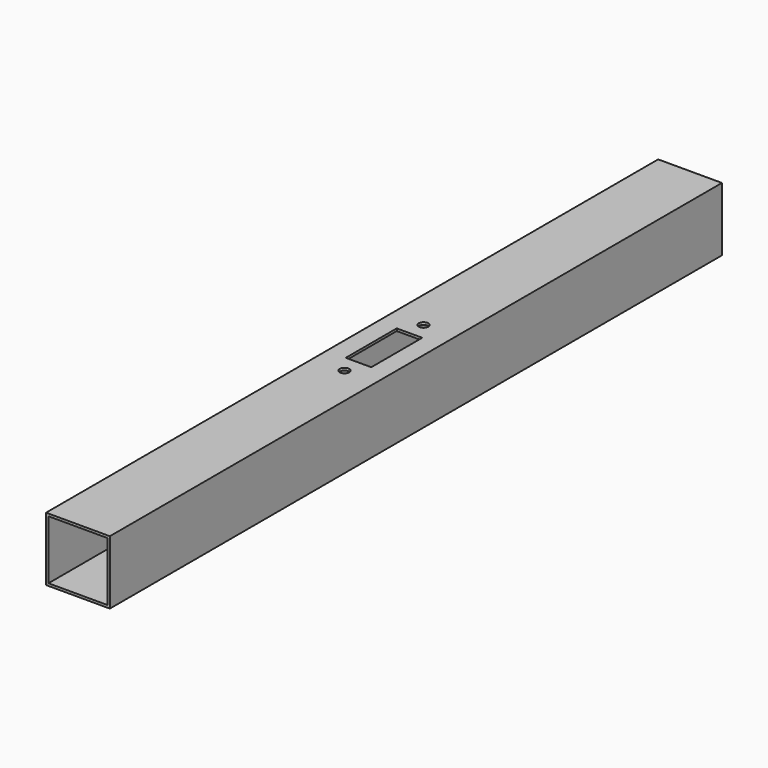
from build123d import *

# Parameters (mm, degrees)
F0_W     = 20
F0_H     = 20
F0_W_2   = 18.5
F0_H_2   = 18.5
F1_DEPTH = 240
F2_W     = 6
F2_H     = 9
F3_DEPTH = 25


with BuildPart() as f1:
    # F0 (on Front) → F1 (new body)
    with BuildSketch(Plane.XZ):
        with Locations((-44.484539, 36.999997)):
            Rectangle(F0_W, F0_H)
        with Locations((-44.484539, 36.999997)):
            Rectangle(F0_W_2, F0_H_2, mode=Mode.SUBTRACT)
    extrude(amount=F1_DEPTH)

    # F2 (on face) → F3 (cut)
    with BuildSketch(Plane.XY.offset(46.999997)):
        with Locations((-44.484539, -124.5)):
            Rectangle(F2_W, F2_H)
        with Locations((-44.484539, -115.5)):
            Rectangle(F2_W, F2_H)
        Polygon((-48.484539, -110), (-48.484539, -120), (-47.484539, -120), (-47.484539, -111), (-41.484539, -111), (-41.484539, -120), (-40.484539, -120), (-40.484539, -110), (-44.484539, -110), align=None)
        Polygon((-47.484539, -120), (-48.484539, -120), (-48.484539, -130), (-44.484539, -130), (-40.484539, -130), (-40.484539, -120), (-41.484539, -120), (-41.484539, -129), (-47.484539, -129), align=None)
        with BuildLine():
            ThreePointArc((-42.984539, -104.5), (-45.545199, -103.43934), (-44.484539, -106))
            ThreePointArc((-44.484539, -106), (-43.423879, -105.56066), (-42.984539, -104.5))
        make_face()
        with BuildLine():
            ThreePointArc((-42.984539, -135.5), (-43.423879, -134.43934), (-44.484539, -134))
            ThreePointArc((-44.484539, -134), (-45.545199, -136.56066), (-42.984539, -135.5))
        make_face()
    extrude(amount=-F3_DEPTH, mode=Mode.SUBTRACT)


solid = f1.part
